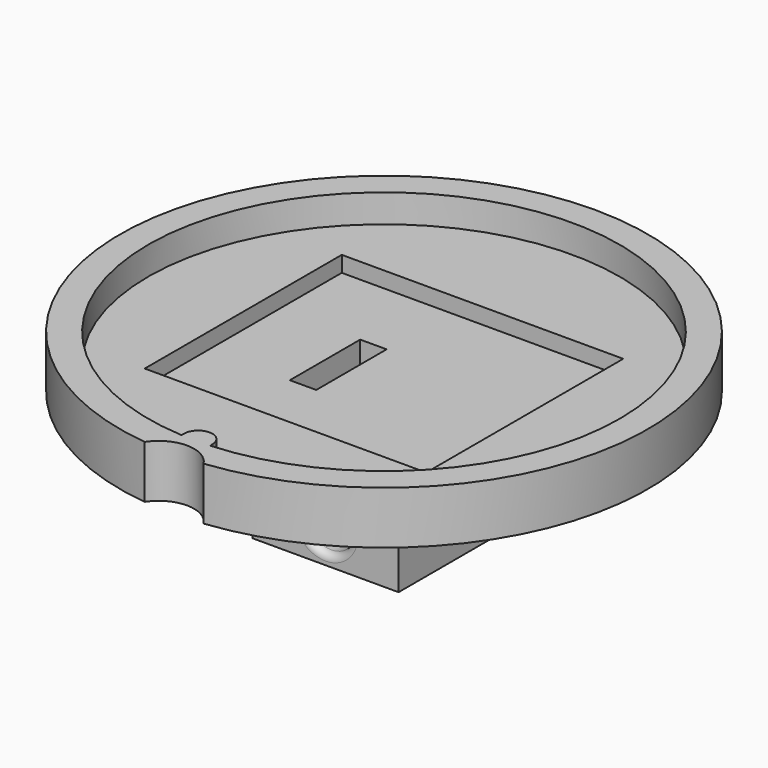
from build123d import *

# Parameters (mm, degrees)
SKETCH012_R     = 15
PAD002_DEPTH    = 3
POCKET004_DEPTH = 1.6
SKETCH013_W     = 16
SKETCH013_H     = 14
POCKET005_DEPTH = 2.5
PAD003_DEPTH    = 7
SKETCH015_R     = 6.5
PAD004_DEPTH    = 1.5
SKETCH016_W     = 1.5
SKETCH016_H     = 5
POCKET006_DEPTH = 10.001
POCKET013_DEPTH = 10.001
POCKET015_DEPTH = 34.90725
FILLET_R        = 0.4
FILLET002_R     = 0.4


with BuildPart() as part:
    # Sketch012 → Pad002 (new body)
    with BuildSketch(Plane.XY):
        with Locations((-60, -20)):
            Circle(SKETCH012_R)
    extrude(amount=-PAD002_DEPTH)

    # Sketch011 → Pocket004 (cut)
    with BuildSketch(Plane.XY):
        with BuildLine():
            ThreePointArc((-59.190336, -33.176677), (-60, -32.39), (-60.809664, -33.176677))
            Line((-60.809664, -33.176677), (-60.821837, -33.374774))
            ThreePointArc((-59.178163, -33.374774), (-60, -6.6), (-60.821837, -33.374774))
            Line((-59.178163, -33.374774), (-59.190336, -33.176677))
        make_face()
    extrude(amount=-POCKET004_DEPTH, mode=Mode.SUBTRACT)

    # Sketch013 → Pocket005 (cut)
    with BuildSketch(Plane.XY):
        with Locations((-60, -20)):
            Rectangle(SKETCH013_W, SKETCH013_H)
    extrude(amount=-POCKET005_DEPTH, mode=Mode.SUBTRACT)

    # Sketch014 → Pad003 (join)
    with BuildSketch(Plane.XY.offset(-3)):
        Polygon((-64.15, -24.15), (-55.85, -24.15), (-55.85, -15.85), (-63.150934, -15.85), (-64.15, -16.849066), align=None)
    extrude(amount=-PAD003_DEPTH)

    # Sketch015 → Pad004 (join)
    with BuildSketch(Plane.XY.offset(-3)):
        with Locations((-60, -20)):
            Circle(SKETCH015_R)
    extrude(amount=-PAD004_DEPTH)

    # Sketch016 → Pocket006 (cut, through all)
    with BuildSketch(Plane.XY):
        with Locations((-62.6, -20)):
            Rectangle(SKETCH016_W, SKETCH016_H)
    extrude(amount=-POCKET006_DEPTH, mode=Mode.SUBTRACT)

    # Sketch025 → Pocket013 (cut, through all)
    with BuildSketch(Plane.XY):
        with BuildLine():
            ThreePointArc((-58.325571, -34.90625), (-60, -34), (-61.674429, -34.90625))
            ThreePointArc((-61.674429, -34.90625), (-60, -35), (-58.325571, -34.90625))
        make_face()
    extrude(amount=-POCKET013_DEPTH, mode=Mode.SUBTRACT)

    # Sketch028 → Pocket015 (cut, through all)
    with BuildSketch(Plane.XZ):
        with BuildLine():
            Line((-58.56, -7.35), (-58.56, -7.95))
            ThreePointArc((-61.44, -7.95), (-60, -9.39), (-58.56, -7.95))
            Line((-61.44, -7.35), (-61.44, -7.95))
            ThreePointArc((-58.56, -7.35), (-60, -5.91), (-61.44, -7.35))
        make_face()
    extrude(amount=POCKET015_DEPTH, mode=Mode.SUBTRACT)

    # Fillet
    fillet_edges = [part.edges().sort_by_distance(p)[0] for p in [
        (-58.56, -24.15, -7.65),
    ]]
    fillet(fillet_edges, radius=FILLET_R)

    # Fillet002
    fillet002_edges = [part.edges().sort_by_distance(p)[0] for p in [
        (-58.56, -15.85, -7.65),
    ]]
    fillet(fillet002_edges, radius=FILLET002_R)


with BuildPart() as part_1:
    # Body001 placement: moved
    add(part.part.moved(Location((60, 20, 1.6))))


solid = part_1.part
